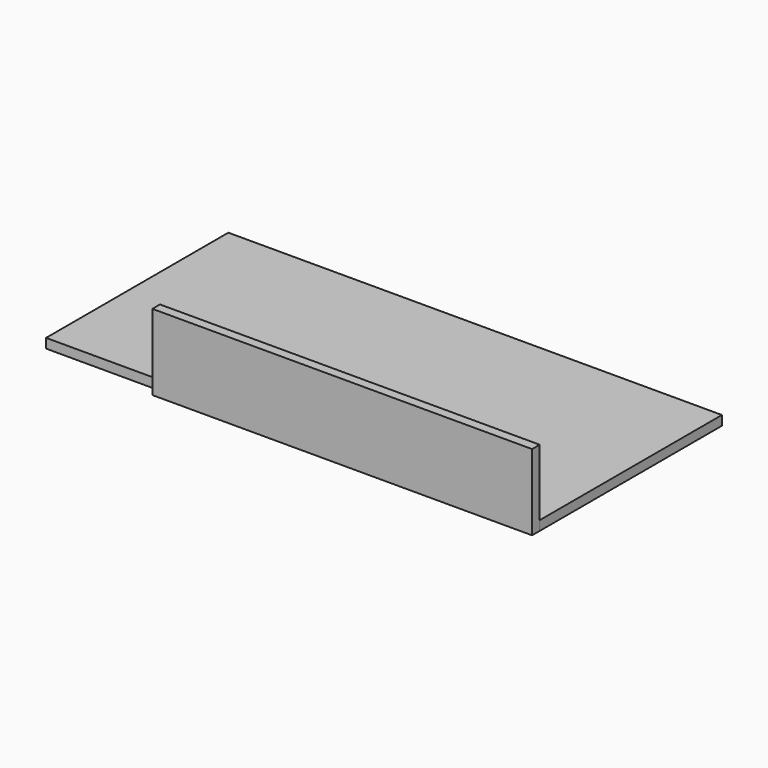
from build123d import *

# Parameters (mm, degrees)
F0_W     = 165.1
F0_H     = 76.2
F1_DEPTH = 3.175
F2_W     = 127
F2_H     = 25.4
F3_DEPTH = 3.175


with BuildPart() as f1:
    # F0 (on Top) → F1 (new body)
    with BuildSketch(Plane.XY):
        with Locations((-82.55, 38.1)):
            Rectangle(F0_W, F0_H)
    extrude(amount=F1_DEPTH)


with BuildPart() as f3:
    # F2 (on face) → F3 (new body)
    with BuildSketch(Plane.XZ):
        with Locations((-63.5, 12.7)):
            Rectangle(F2_W, F2_H)
    extrude(amount=F3_DEPTH)


solid = Compound([f1.part, f3.part])
